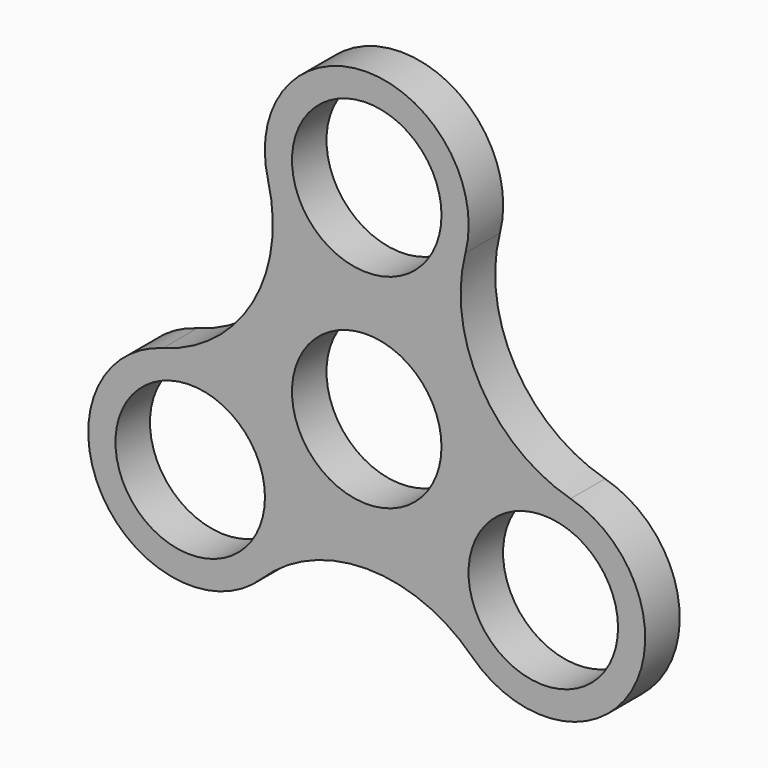
from build123d import *

# Parameters (mm, degrees)
F0_R     = 11
F1_DEPTH = 6.35


with BuildPart() as f1:
    # F0 (on Front) → F1 (new body)
    with BuildSketch(Plane.XZ):
        with BuildLine():
            ThreePointArc((29.995011, -0.547118), (16.780923, 9.688471), (14.523688, 26.25))
            ThreePointArc((14.523688, 26.25), (0, 45), (-14.523688, 26.25))
            ThreePointArc((-14.523688, 26.25), (-16.780923, 9.688471), (-29.995011, -0.547118))
            ThreePointArc((-29.995011, -0.547118), (-38.971143, -22.5), (-15.471323, -25.702882))
            ThreePointArc((-15.471323, -25.702882), (0, -19.376941), (15.471323, -25.702882))
            ThreePointArc((15.471323, -25.702882), (38.971143, -22.5), (29.995011, -0.547118))
        make_face()
        with Locations((-25.980762, -15)):
            Circle(F0_R, mode=Mode.SUBTRACT)
        with Locations((25.980762, -15)):
            Circle(F0_R, mode=Mode.SUBTRACT)
        Circle(F0_R, mode=Mode.SUBTRACT)
        with Locations((0, 30)):
            Circle(F0_R, mode=Mode.SUBTRACT)
    extrude(amount=F1_DEPTH)


solid = f1.part
